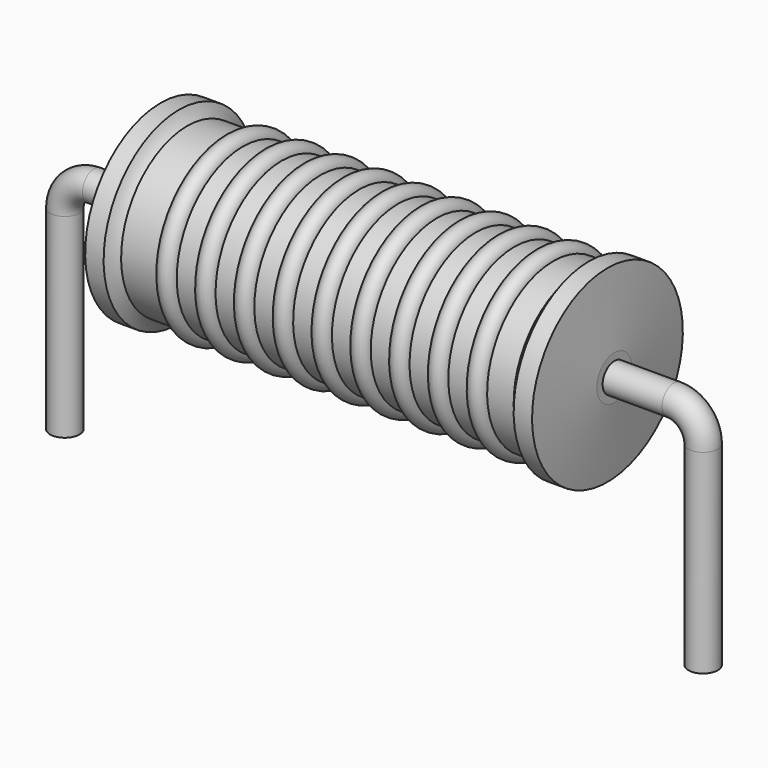
from build123d import *

# Parameters (mm, degrees)
SKETCH_R = 0.35


with BuildPart() as revolution:
    # Sketch002 → Revolution (revolve)
    with BuildSketch(Plane.XZ):
        with BuildLine():
            Line((2.285, 4.6), (2.725, 4.6))
            ThreePointArc((2.725, 4.6), (2.809594, 4.452128), (2.923, 4.325))
            Line((2.923, 4.325), (12.295, 4.325))
            ThreePointArc((12.295, 4.325), (12.419171, 4.451163), (12.515, 4.6))
            Line((12.515, 4.6), (12.955, 4.6))
            ThreePointArc((13.12, 2.875), (13.039205, 3.737663), (12.955, 4.6))
            Line((13.12, 2.35), (13.12, 2.875))
            Line((2.12, 2.35), (13.12, 2.35))
            Line((2.12, 2.35), (2.12, 2.875))
            ThreePointArc((2.285, 4.6), (2.200795, 3.737663), (2.12, 2.875))
        make_face()
    revolve(axis=Axis((2.12, 0, 2.35), (1, 0, 0)))


with BuildPart() as sweep_body:
    # Sweep: sweep along a path in Sketch001
    with BuildLine(Plane.XZ) as sweep_path:
        Line((0, -3), (0, 1.65))
        ThreePointArc((0, 1.65), (0.205028, 2.144977), (0.700007, 2.35))
        Line((0.700007, 2.35), (14.54, 2.35))
        ThreePointArc((14.54, 2.35), (15.034975, 2.144975), (15.24, 1.65))
        Line((15.24, 1.65), (15.24, -3))
    # Sketch → Sweep (sweep)
    with BuildSketch(Plane.XY.offset(-2)):
        Circle(SKETCH_R)
    sweep(path=sweep_path.line)


with BuildPart() as revolution001:
    # Sketch003 → Revolution001 (revolve)
    with BuildSketch(Plane.XZ):
        with BuildLine():
            ThreePointArc((4.256316, 4.281), (4.024737, 4.512579), (3.793158, 4.281))
            Line((3.33, 4.281), (3.793158, 4.281))
            Line((3.33, 4.281), (3.33, 3.831))
            Line((3.33, 3.831), (12.13, 3.831))
            Line((12.13, 3.831), (12.13, 4.281))
            Line((11.666842, 4.281), (12.13, 4.281))
            ThreePointArc((11.666842, 4.281), (11.435263, 4.512579), (11.203684, 4.281))
            Line((10.740526, 4.281), (11.203684, 4.281))
            ThreePointArc((10.740526, 4.281), (10.508947, 4.512579), (10.277368, 4.281))
            Line((9.814211, 4.281), (10.277368, 4.281))
            ThreePointArc((9.814211, 4.281), (9.582632, 4.512579), (9.351053, 4.281))
            Line((8.887895, 4.281), (9.351053, 4.281))
            ThreePointArc((8.887895, 4.281), (8.656316, 4.512579), (8.424737, 4.281))
            Line((7.961579, 4.281), (8.424737, 4.281))
            ThreePointArc((7.961579, 4.281), (7.73, 4.512579), (7.498421, 4.281))
            Line((7.035263, 4.281), (7.498421, 4.281))
            ThreePointArc((7.035263, 4.281), (6.803684, 4.512579), (6.572105, 4.281))
            Line((6.108947, 4.281), (6.572105, 4.281))
            ThreePointArc((6.108947, 4.281), (5.877368, 4.512579), (5.645789, 4.281))
            Line((5.182632, 4.281), (5.645789, 4.281))
            ThreePointArc((5.182632, 4.281), (4.951053, 4.512579), (4.719474, 4.281))
            Line((4.256316, 4.281), (4.719474, 4.281))
        make_face()
    revolve(axis=Axis((2.395, 0, 2.35), (1, 0, 0)))


solid = Compound([revolution.part, sweep_body.part, revolution001.part])
